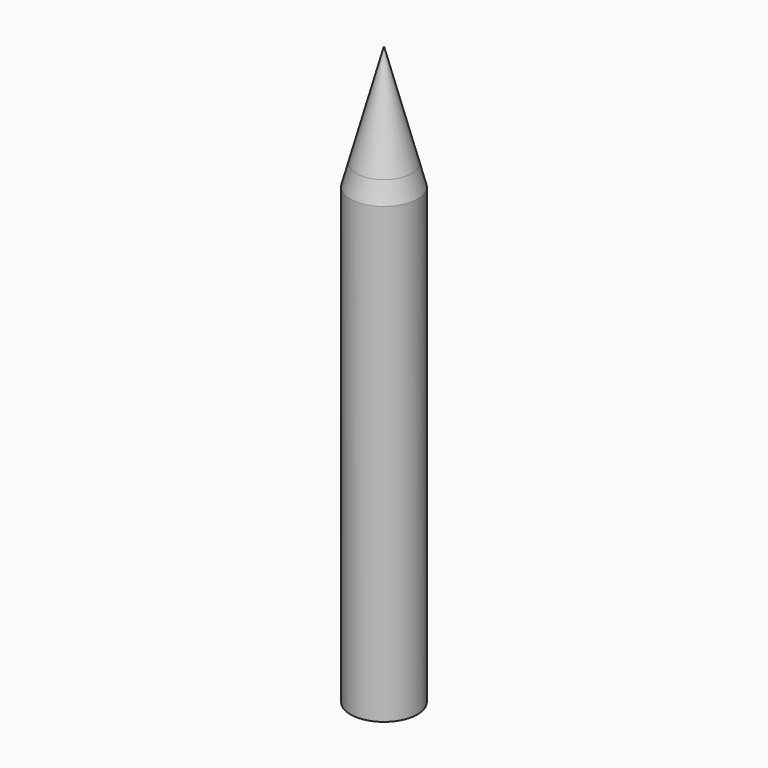
from build123d import *


with BuildPart() as part:
    # Sketch → Revolution (revolve)
    with BuildSketch(Plane.XZ):
        Polygon((0, 0), (-6, 0), (-6, 60), (-6, 81.304422), (-5, 85), (0, 103.477892), (0, 85), align=None)
    revolve(axis=Axis((0, 0, 0), (0, 0, 1)))


solid = part.part
